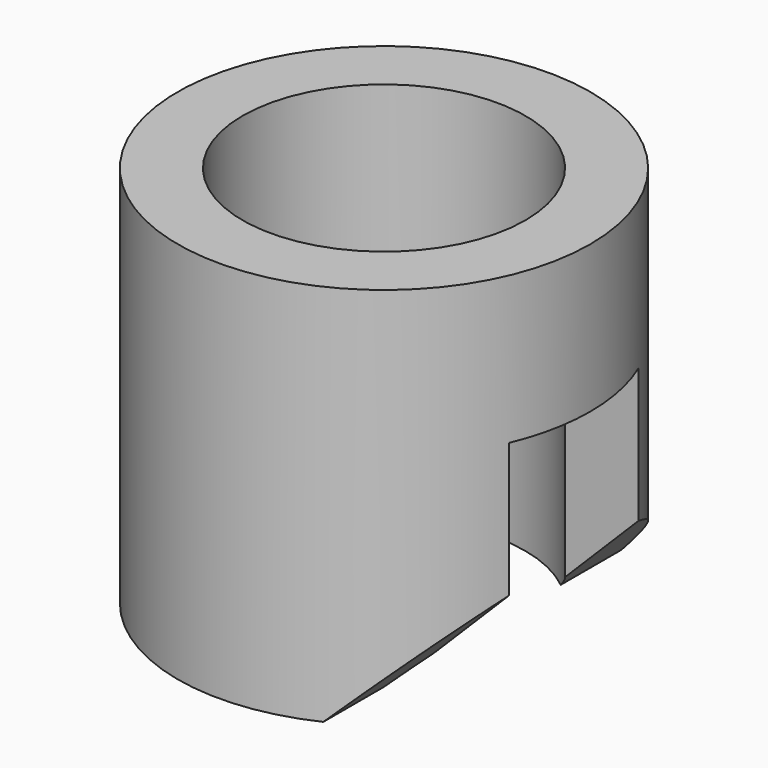
from build123d import *

# Parameters (mm, degrees)
F0_R     = 7
F0_R_2   = 4.8
F1_DEPTH = 13
F2_W     = 6.828025
F2_H     = 5.5
F3_DEPTH = 8
F5_DEPTH = 12.5


with BuildPart() as f1:
    # F0 (on Top) → F1 (new body)
    with BuildSketch(Plane.XY):
        Circle(F0_R)
        Circle(F0_R_2, mode=Mode.SUBTRACT)
    extrude(amount=F1_DEPTH)

    # F2 (on Top) → F3 (cut)
    with BuildSketch(Plane.XY):
        with Locations((6.614012, 0)):
            Rectangle(F2_W, F2_H)
    extrude(amount=F3_DEPTH, mode=Mode.SUBTRACT)

    # F4 (on Front) → F5 (cut, symmetric)
    with BuildSketch(Plane.XZ):
        Polygon((3, 0), (6.5, 0), (6.5, 3.5), align=None)
    extrude(amount=F5_DEPTH, both=True, mode=Mode.SUBTRACT)


solid = f1.part
